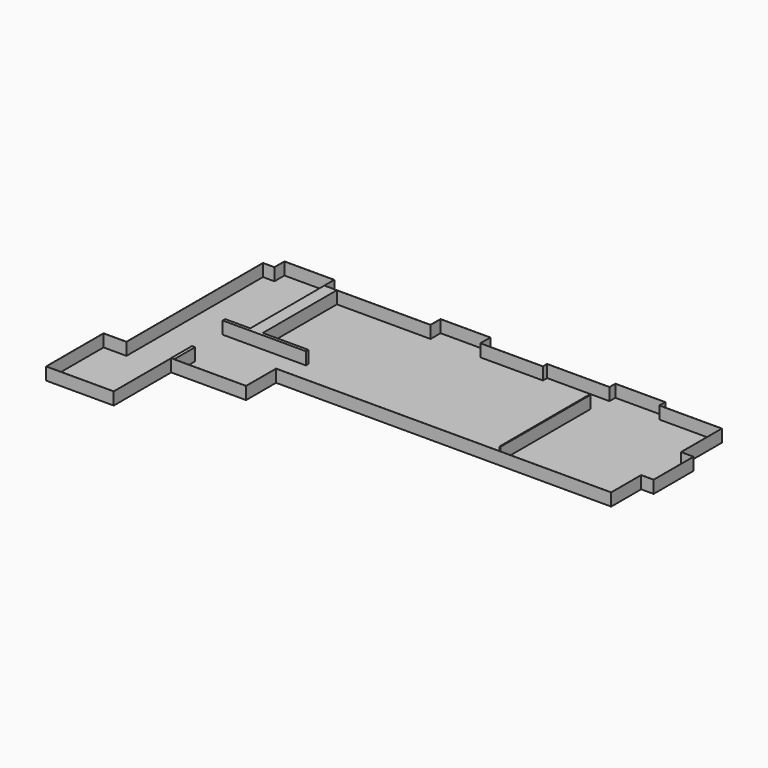
from build123d import *

# Parameters (mm, degrees)
F1_DEPTH = 304.8
F2_T     = -2.54
F4_DEPTH = 304.8
F5_W     = 76.2
F5_H     = 635
F6_DEPTH = 304.8
F7_W     = 25.4
F7_H     = 2743.2
F8_DEPTH = 304.8


with BuildPart() as f1:
    # F0 (on Top) → F1 (new body)
    with BuildSketch(Plane.XY):
        Polygon((-2921, 3251.2), (-2921, -914.4), (-3479.8, -914.4), (-3479.8, -2667), (-1828.8, -2667), (-1828.8, -914.4), (0, -914.4), (0, 0), (8178.8, 0), (8178.8, 914.4), (8483.6, 914.4), (8483.6, 2133.6), (8178.8, 2133.6), (8178.8, 3378.2), (6654.8, 3378.2), (6654.8, 3556), (5435.6, 3556), (5435.6, 3378.2), (3911.6, 3378.2), (3911.6, 3251.2), (2387.6, 3251.2), (2387.6, 3556), (1168.4, 3556), (1168.4, 3251.2), (-1422.4, 3251.2), (-1422.4, 3556), (-2641.6, 3556), (-2641.6, 3251.2), align=None)
    extrude(amount=F1_DEPTH)

    # F2
    f2_openings = [f1.faces().sort_by_distance(p)[0] for p in [
        (2087.908802, 1330.371732, 304.8),
    ]]
    offset(amount=F2_T, openings=f2_openings, kind=Kind.INTERSECTION)

    # F3 (on face) → F4 (join)
    with BuildSketch(Plane.XY.offset(2.54)):
        Polygon((-1115.06, 3248.66), (-1419.86, 3248.66), (-1419.86, 988.06), (-2032, 988.06), (-2032, 911.86), (0, 911.86), (0, 988.06), (-1115.06, 988.06), align=None)
    extrude(amount=F4_DEPTH)

    # F5 (on face) → F6 (join)
    with BuildSketch(Plane.XY.offset(2.54)):
        with Locations((-1793.24, -594.36)):
            Rectangle(F5_W, F5_H)
    extrude(amount=F6_DEPTH)

    # F7 (on face) → F8 (join)
    with BuildSketch(Plane.XY.offset(2.54)):
        with Locations((5346.7, 1524)):
            Rectangle(F7_W, F7_H)
    extrude(amount=F8_DEPTH)


solid = f1.part
